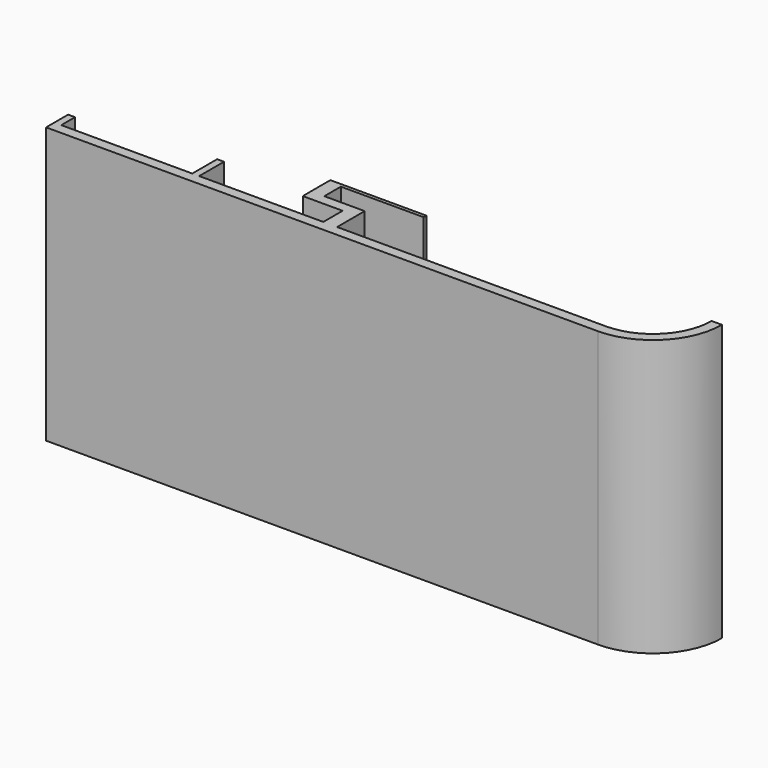
from build123d import *

# Parameters (mm, degrees)
F1_DEPTH = 40


with BuildPart() as f1:
    # F0 (on Top) → F1 (new body)
    with BuildSketch(Plane.XY):
        with BuildLine():
            Line((-80, -20), (-0.902612, -20))
            Line((-0.902612, -20), (0, -20))
            ThreePointArc((0, -20), (7.071068, -17.071068), (10, -10))
            Line((10, -10), (8.5, -10))
            ThreePointArc((8.5, -10), (6.010408, -16.010408), (0, -18.5))
            Line((0, -18.5), (-6.213812, -18.5))
            Line((-6.213812, -18.5), (-39, -18.5))
            Line((-39, -18.5), (-39, -13.5))
            Line((-39, -13.5), (-44.853471, -13.5))
            Line((-44.853471, -13.5), (-44.853471, -10.5))
            Line((-44.853471, -10.5), (-32.853471, -10.5))
            Line((-32.853471, -10.5), (-32.853471, -10))
            Line((-32.853471, -10), (-46.780869, -10))
            Line((-46.780869, -10), (-46.780869, -15))
            Line((-46.780869, -15), (-41, -15))
            Line((-41, -15), (-41, -18.5))
            Line((-41, -18.5), (-59, -18.5))
            Line((-59, -18.5), (-59, -14))
            Line((-59, -14), (-60, -14))
            Line((-60, -14), (-60, -18.5))
            Line((-60, -18.5), (-79, -18.5))
            Line((-79, -18.5), (-79, -16))
            Line((-79, -16), (-80, -16))
            Line((-80, -16), (-80, -18.5))
            Line((-80, -18.5), (-80, -20))
        make_face()
    extrude(amount=F1_DEPTH)


solid = f1.part
